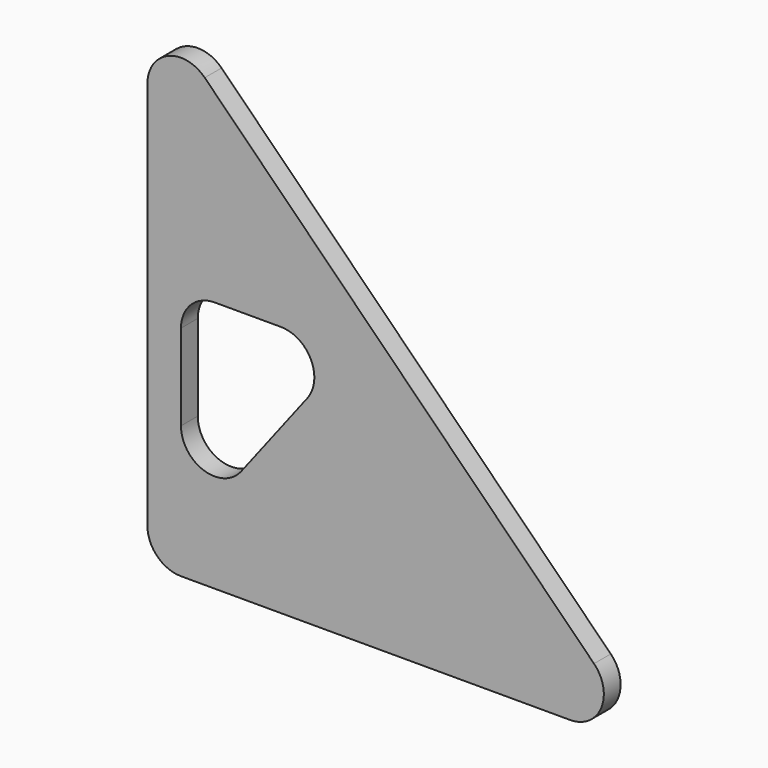
from build123d import *

# Parameters (mm, degrees)
F1_DEPTH = 3.175
F2_R     = 5.08
F4_DEPTH = 25.4
F5_R     = 5.08


with BuildPart() as f1:
    # F0 (on Front) → F1 (new body)
    with BuildSketch(Plane.XZ):
        Polygon((-76.2, 0), (0, 0), (-76.2, 76.2), align=None)
    extrude(amount=F1_DEPTH)

    # F2
    f2_edges = [f1.edges().sort_by_distance(p)[0] for p in [
        (-76.2, -1.5875, 76.2),
        (-76.2, -1.5875, 0),
        (0, -1.5875, 0),
    ]]
    fillet(f2_edges, radius=F2_R)

    # F3 (on face) → F4 (cut)
    with BuildSketch(Plane.XZ.offset(3.175)):
        Polygon((-71.12, 38.1), (-71.12, 5.08), (-45.72, 38.1), align=None)
    extrude(amount=-F4_DEPTH, mode=Mode.SUBTRACT)

    # F5
    f5_edges = [f1.edges().sort_by_distance(p)[0] for p in [
        (-71.12, -1.5875, 5.08),
        (-45.72, -1.5875, 38.1),
        (-71.12, -1.5875, 38.1),
    ]]
    fillet(f5_edges, radius=F5_R)


solid = f1.part
